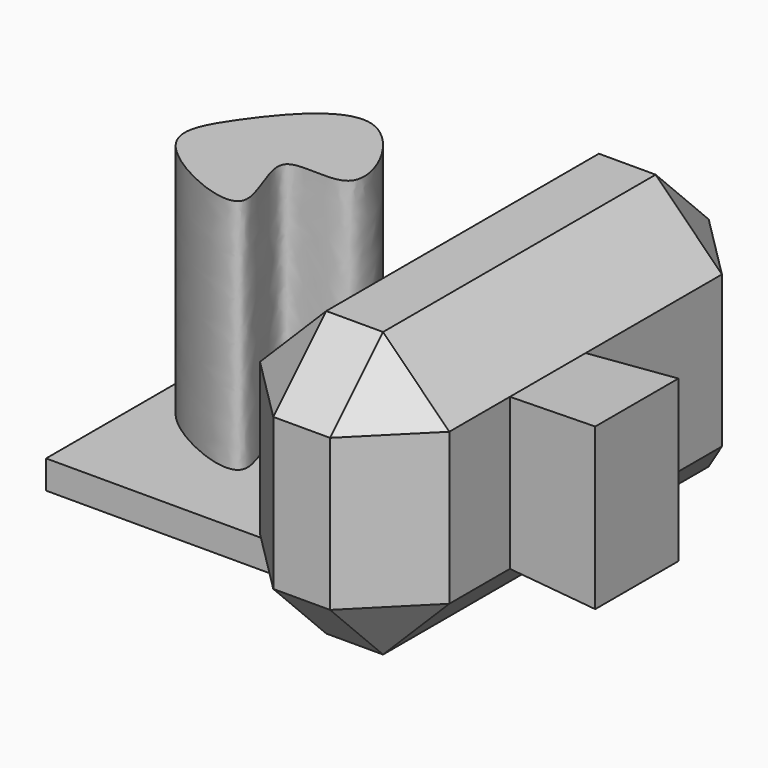
from build123d import *

# Parameters (mm, degrees)
F0_W     = 40
F0_H     = 30
F1_DEPTH = 3
F2_W     = 20
F2_H     = 30
F3_DEPTH = 25
F4_SIZE  = 7
F6_DEPTH = 25
F7_W     = 10
F7_H     = 16
F8_DEPTH = 9.4092879444
F8_TAPER = -3


with BuildPart() as f1:
    # F0 (on Top) → F1 (new body)
    with BuildSketch(Plane.XY):
        with Locations((-30, 25)):
            Rectangle(F0_W, F0_H)
    extrude(amount=F1_DEPTH)

    # F5 (on face) → F6 (join)
    with BuildSketch(Plane.XY.offset(3)):
        with BuildLine():
            add(Edge.make_bspline(
                [(-45.5009639263, 29.5013263822), (-47.2935786919, 26.9028030822), (-49.5660748007, 22.3358883557), (-31.5912436874, 14.2675803547), (-41.1310284025, 28.562782317), (-27.4171372754, 23.7993421626), (-36.1785425543, 41.2178835314), (-43.2008762113, 32.8354680137), (-45.5009639263, 29.5013263822)],
                knots=[0, 0, 0, 0, 0.1479609041, 0.3361347491, 0.489729632, 0.6301338361, 0.8101527085, 1, 1, 1, 1], degree=3))
        make_face()
    extrude(amount=F6_DEPTH)


with BuildPart() as f3:
    # F2 (on Front) → F3 (new body, symmetric)
    with BuildSketch(Plane.XZ):
        with Locations((5, 30)):
            Rectangle(F2_W, F2_H)
    extrude(amount=F3_DEPTH, both=True)

    # F4
    f4_edges = [f3.edges().sort_by_distance(p)[0] for p in [
        (5, -25, 45),
        (-5, -25, 30),
        (5, -25, 15),
        (15, -25, 30),
        (5, 25, 45),
        (-5, 0, 45),
        (15, 0, 45),
        (15, 25, 30),
        (15, 0, 15),
        (-5, 25, 30),
        (-5, 0, 15),
    ]]
    chamfer(f4_edges, length=F4_SIZE)

    # F7 (on face) → F8 (join)
    with BuildSketch(Plane.YZ.offset(15)):
        with Locations((-5, 30)):
            Rectangle(F7_W, F7_H)
    extrude(amount=F8_DEPTH, taper=F8_TAPER)


solid = Compound([f1.part, f3.part])
